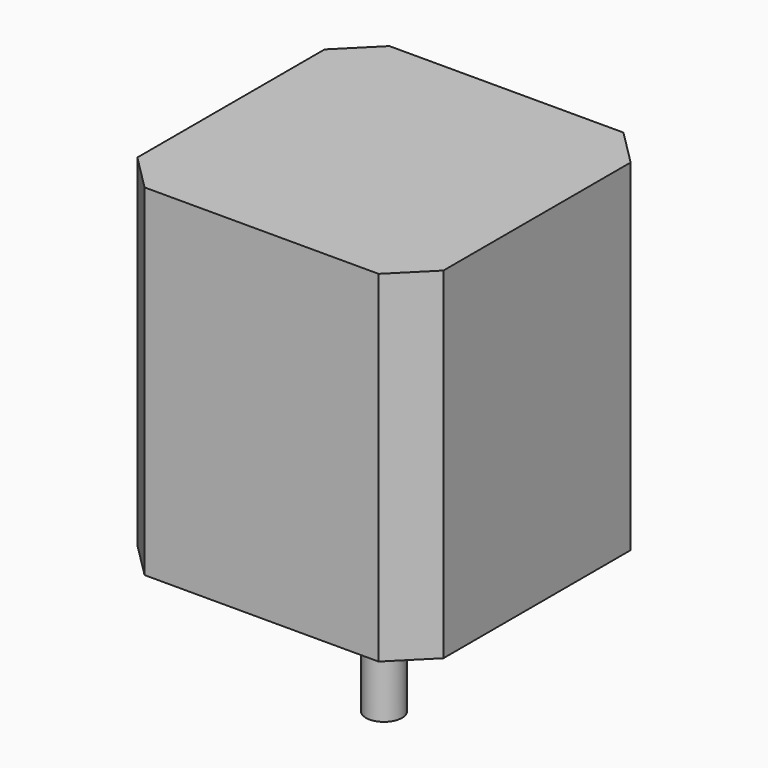
from build123d import *

# Parameters (mm, degrees)
SKETCH039_W        = 42.5
SKETCH039_H        = 42.5
PAD011_DEPTH       = 47.4
CHAMFER005_SIZE    = 5
CHAMFER004_SIZE    = 5
CHAMFER006_SIZE    = 5
CHAMFER007_SIZE    = 5
SKETCH041_R        = 11
PAD012_DEPTH       = 1.5
SKETCH040_R        = 2.5
PAD010_DEPTH       = 18.5
BODY008_ROLL_ANGLE = 90


with BuildPart() as part:
    # Sketch039 → Pad011 (new body)
    with BuildSketch(Plane.XZ):
        Rectangle(SKETCH039_W, SKETCH039_H)
    extrude(amount=-PAD011_DEPTH)

    # Chamfer005
    chamfer005_edges = [part.edges().sort_by_distance(p)[0] for p in [
        (21.25, 23.7, 21.25),
    ]]
    chamfer(chamfer005_edges, length=CHAMFER005_SIZE)

    # Chamfer004
    chamfer004_edges = [part.edges().sort_by_distance(p)[0] for p in [
        (-21.25, 23.7, 21.25),
    ]]
    chamfer(chamfer004_edges, length=CHAMFER004_SIZE)

    # Chamfer006
    chamfer006_edges = [part.edges().sort_by_distance(p)[0] for p in [
        (21.25, 23.7, -21.25),
    ]]
    chamfer(chamfer006_edges, length=CHAMFER006_SIZE)

    # Chamfer007
    chamfer007_edges = [part.edges().sort_by_distance(p)[0] for p in [
        (-21.25, 23.7, -21.25),
    ]]
    chamfer(chamfer007_edges, length=CHAMFER007_SIZE)

    # Sketch041 (on Face1 of Chamfer007) → Pad012 (join)
    with BuildSketch(Plane.XZ):
        Circle(SKETCH041_R)
    extrude(amount=PAD012_DEPTH)

    # Sketch040 (on Face12 of Pad012) → Pad010 (join)
    with BuildSketch(Plane.XZ.offset(1.5)):
        Circle(SKETCH040_R)
    extrude(amount=PAD010_DEPTH)


with BuildPart() as part_1:
    # Body008 roll: moved
    add(part.part.rotate(Axis((0, 0, 0), (1, 0, 0)), BODY008_ROLL_ANGLE))


with BuildPart() as part_2:
    # Body008 placement: moved
    add(part_1.part.moved(Location((-28.5, 150, 72.85))))


solid = part_2.part
